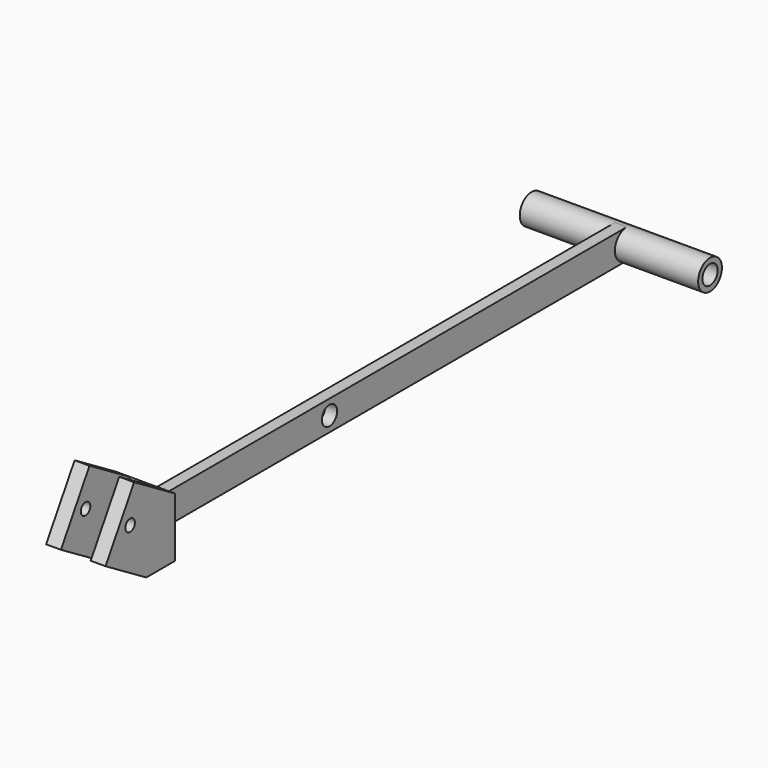
from build123d import *

# Parameters (mm, degrees)
F0_R          = 12.5
F0_R_2        = 8
F1_DEPTH      = 75
F1_DEPTH_BACK = 75
F2_W          = 500
F2_H          = 25
F3_DEPTH      = 5
F3_DEPTH_BACK = 5
F4_R          = 8
F5_DEPTH      = 25
F5_DEPTH_BACK = 25
F6_W          = 50
F6_H          = 50
F6_W_2        = 10
F6_H_2        = 25
F7_DEPTH      = 30
F9_DEPTH      = 50
F10_W         = 12.5
F10_H         = 58.3095189485
F11_DEPTH     = 50
F12_R         = 5
F13_DEPTH     = 100.001


with BuildPart() as f1:
    # F0 (on Right) → F1 (new body, two sides)
    with BuildSketch(Plane.YZ) as f1_sk:
        Circle(F0_R)
        Circle(F0_R_2, mode=Mode.SUBTRACT)
    extrude(amount=F1_DEPTH)
    extrude(f1_sk.sketch, amount=-F1_DEPTH_BACK)

    # F2 (on Right) → F3 (join, two sides)
    with BuildSketch(Plane.YZ) as f3_sk:
        with Locations((-250, 0)):
            Rectangle(F2_W, F2_H)
    extrude(amount=F3_DEPTH)
    extrude(f3_sk.sketch, amount=-F3_DEPTH_BACK)

    # F4 (on face) → F5 (cut, two sides)
    with BuildSketch(Plane.YZ.offset(5)) as f5_sk:
        with Locations((-312.5, 0)):
            Circle(F4_R)
    extrude(amount=F5_DEPTH, mode=Mode.SUBTRACT)
    extrude(f5_sk.sketch, amount=-F5_DEPTH_BACK, mode=Mode.SUBTRACT)

    # F6 (on face) → F7 (join)
    with BuildSketch(Plane.XZ.offset(500)):
        Rectangle(F6_W, F6_H)
        Rectangle(F6_W_2, F6_H_2, mode=Mode.SUBTRACT)
        Rectangle(F6_W_2, F6_H_2)
    extrude(amount=F7_DEPTH)

    # F8 (on face) → F9 (cut)
    with BuildSketch(Plane.YZ.offset(25)):
        Polygon((-530, 25), (-530, -25), (-500, 25), align=None)
    extrude(amount=-F9_DEPTH, mode=Mode.SUBTRACT)

    # F10 (on face) → F11 (join)
    with BuildSketch(Plane(origin=(0, -378.6764705882, 227.2058823529), x_dir=(1, 0, 0), z_dir=(0, -0.8574929257, 0.5144957554))):
        with Locations((-18.75, -264.9653140452)):
            Rectangle(F10_W, F10_H)
        with Locations((18.75, -264.9653140452)):
            Rectangle(F10_W, F10_H)
    extrude(amount=F11_DEPTH)

    # F12 (on face) → F13 (cut, through all)
    with BuildSketch(Plane.YZ.offset(25)):
        with Locations((-546.9936727221, 20.5359361312)):
            Circle(F12_R)
    extrude(amount=-F13_DEPTH, mode=Mode.SUBTRACT)


solid = f1.part
